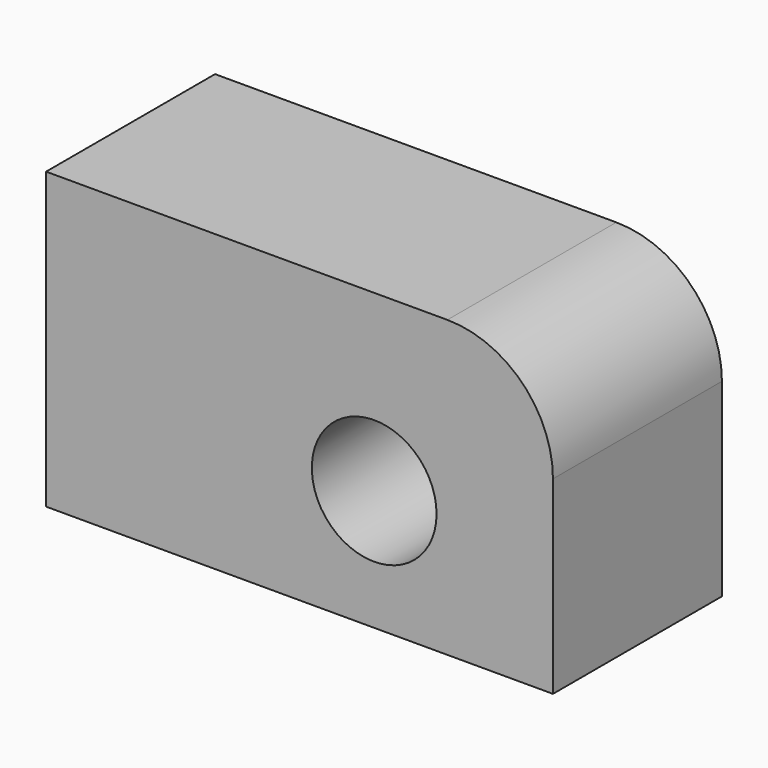
from build123d import *

# Parameters (mm, degrees)
F1_DEPTH = 25.4
F2_R     = 7.5
F3_DEPTH = 25.401


with BuildPart() as f1:
    # F0 (on Front) → F1 (new body)
    with BuildSketch(Plane.XZ):
        with BuildLine():
            Line((0, 35.468981), (0, 0))
            Line((0, 0), (60.96, 0))
            Line((60.96, 0), (60.96, 22.768981))
            ThreePointArc((60.96, 22.768981), (57.240256, 31.749237), (48.26, 35.468981))
            Line((48.26, 35.468981), (0, 35.468981))
        make_face()
    extrude(amount=F1_DEPTH)

    # F2 (on face) → F3 (cut, through all)
    with BuildSketch(Plane.XZ.offset(25.4)):
        with Locations((39.46, 14.5)):
            Circle(F2_R)
    extrude(amount=-F3_DEPTH, mode=Mode.SUBTRACT)


solid = f1.part
